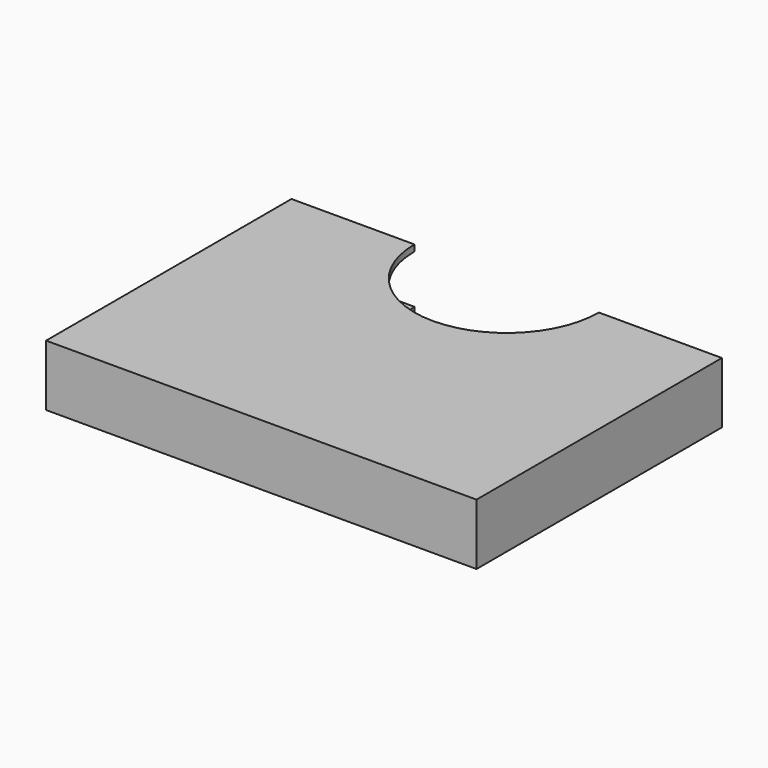
from build123d import *

# Parameters (mm, degrees)
F1_DEPTH = 1.2
F2_DEPTH = 10.5918
F4_DEPTH = 1.2
F6_DEPTH = 9.3918


with BuildPart() as f1:
    # F0 (on Top) → F1 (new body)
    with BuildSketch(Plane.XY):
        with BuildLine():
            Line((-17.78, 58.42), (-40.3225, 58.42))
            Line((-40.3225, 58.42), (-40.3225, 0))
            Line((-40.3225, 0), (40.3225, 0))
            Line((40.3225, 0), (40.3225, 58.42))
            Line((40.3225, 58.42), (17.78, 58.42))
            ThreePointArc((17.78, 58.42), (0, 40.64), (-17.78, 58.42))
        make_face()
        Polygon((-40.3225, 0), (-40.3225, 58.42), (-41.5225, 58.42), (-41.5225, -0.76), (41.5225, -0.76), (41.5225, 58.42), (40.3225, 58.42), (40.3225, 0), align=None)
    extrude(amount=F1_DEPTH)

    # F0 (on Top) → F2 (join)
    with BuildSketch(Plane.XY):
        Polygon((-40.3225, 0), (-40.3225, 58.42), (-41.5225, 58.42), (-41.5225, -0.76), (41.5225, -0.76), (41.5225, 58.42), (40.3225, 58.42), (40.3225, 0), align=None)
    extrude(amount=F2_DEPTH)

    # F3 (on face) → F4 (join)
    with BuildSketch(Plane.XY.offset(10.5918)):
        with BuildLine():
            Line((-40.3225, 58.42), (-41.5225, 58.42))
            Line((-41.5225, 58.42), (-41.5225, -0.76))
            Line((-41.5225, -0.76), (41.5225, -0.76))
            Line((41.5225, -0.76), (41.5225, 58.42))
            Line((41.5225, 58.42), (40.3225, 58.42))
            Line((40.3225, 58.42), (17.78, 58.42))
            ThreePointArc((17.78, 58.42), (0, 40.64), (-17.78, 58.42))
            Line((-17.78, 58.42), (-40.3225, 58.42))
        make_face()
    extrude(amount=F4_DEPTH)

    # F5 (on face) → F6 (join, through all)
    with BuildSketch(Plane.XY.offset(1.2)):
        Polygon((-40.3225, 55.88), (-39.9225, 55.88), (-39.9225, 56.16), (-39.5225, 56.16), (-39.5225, 56.44), (-39.1225, 56.44), (-39.1225, 56.72), (-38.7225, 56.72), (-38.7225, 57), (-38.3225, 57), (-38.3225, 57.28), (-37.9225, 57.28), (-37.9225, 57.56), (-37.5225, 57.56), (-37.5225, 58.42), (-40.3225, 58.42), align=None)
    extrude(amount=F6_DEPTH)


solid = f1.part
